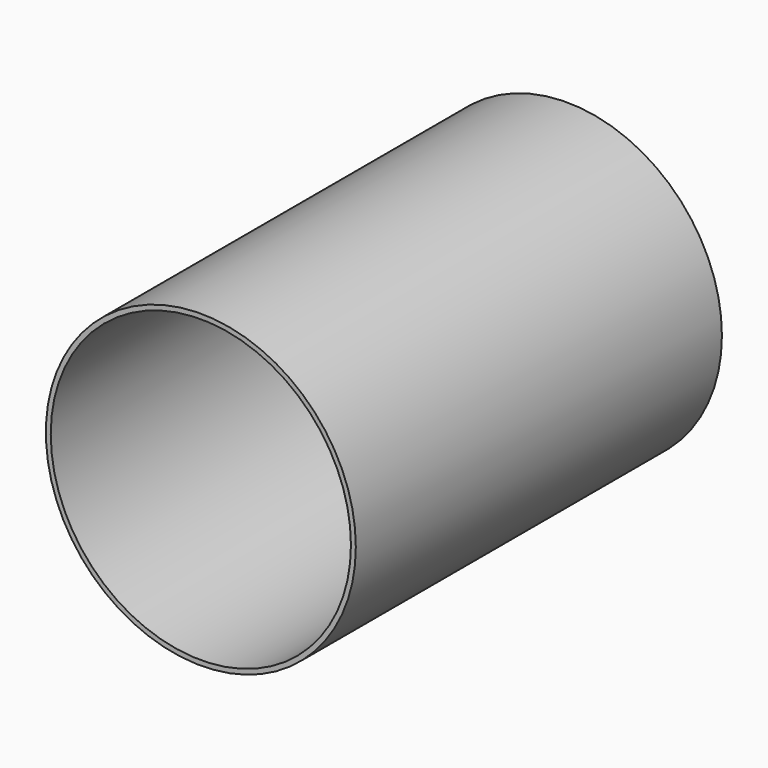
from build123d import *

# Parameters (mm, degrees)
F0_R     = 50.8
F0_R_2   = 49.2
F1_DEPTH = 150


with BuildPart() as f1:
    # F0 (on Front) → F1 (new body)
    with BuildSketch(Plane.XZ):
        with Locations((-59.360489, 50.331548)):
            Circle(F0_R)
        with Locations((-59.360489, 50.331548)):
            Circle(F0_R_2, mode=Mode.SUBTRACT)
    extrude(amount=-F1_DEPTH)


solid = f1.part
